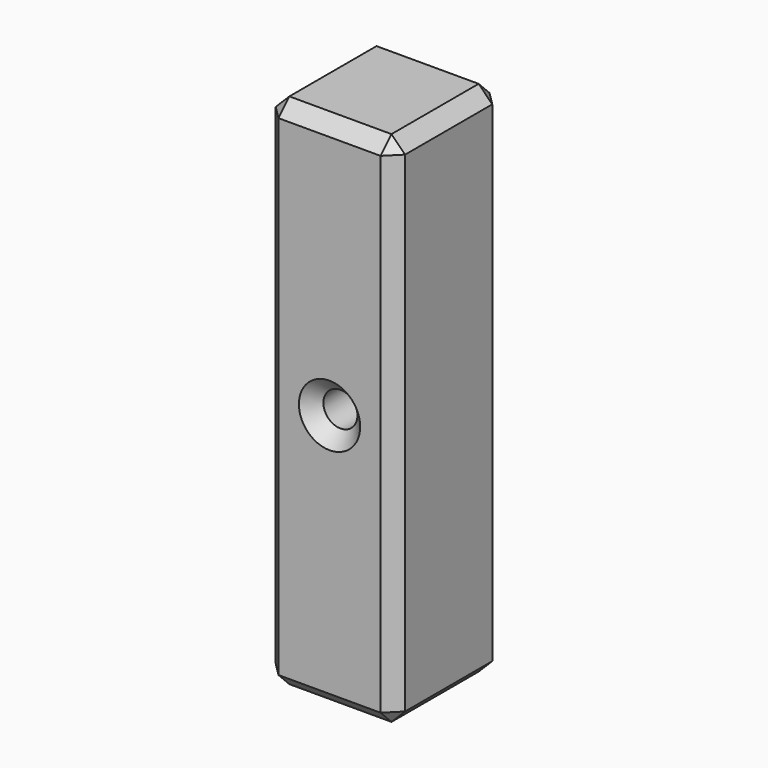
from build123d import *

# Parameters (mm, degrees)
F0_W     = 9.5
F0_H     = 38
F1_DEPTH = 10
F2_R     = 1.25
F3_DEPTH = 25
F4_SIZE  = 1


with BuildPart() as f1:
    # F0 (on Front) → F1 (new body)
    with BuildSketch(Plane.XZ):
        with Locations((-21.8694014475, 16.620930075)):
            Rectangle(F0_W, F0_H)
    extrude(amount=F1_DEPTH)

    # F2 (on face) → F3 (cut)
    with BuildSketch(Plane.XZ.offset(10)):
        with Locations((-21.8694014475, 16.620930075)):
            Circle(F2_R)
    extrude(amount=-F3_DEPTH, mode=Mode.SUBTRACT)

    # F4
    f4_edges = [f1.edges().sort_by_distance(p)[0] for p in [
        (-21.869401, -10, 35.62093),
        (-17.119401, -10, 16.62093),
        (-26.619401, -10, 16.62093),
        (-21.869401, -10, -2.37907),
        (-23.119401, -10, 16.62093),
        (-21.869401, 0, 35.62093),
        (-17.119401, 0, 16.62093),
        (-26.619401, 0, 16.62093),
        (-21.869401, 0, -2.37907),
        (-23.119401, 0, 16.62093),
        (-26.619401, -5, 35.62093),
        (-26.619401, -5, -2.37907),
        (-17.119401, -5, -2.37907),
        (-17.119401, -5, 35.62093),
    ]]
    chamfer(f4_edges, length=F4_SIZE)


solid = f1.part
